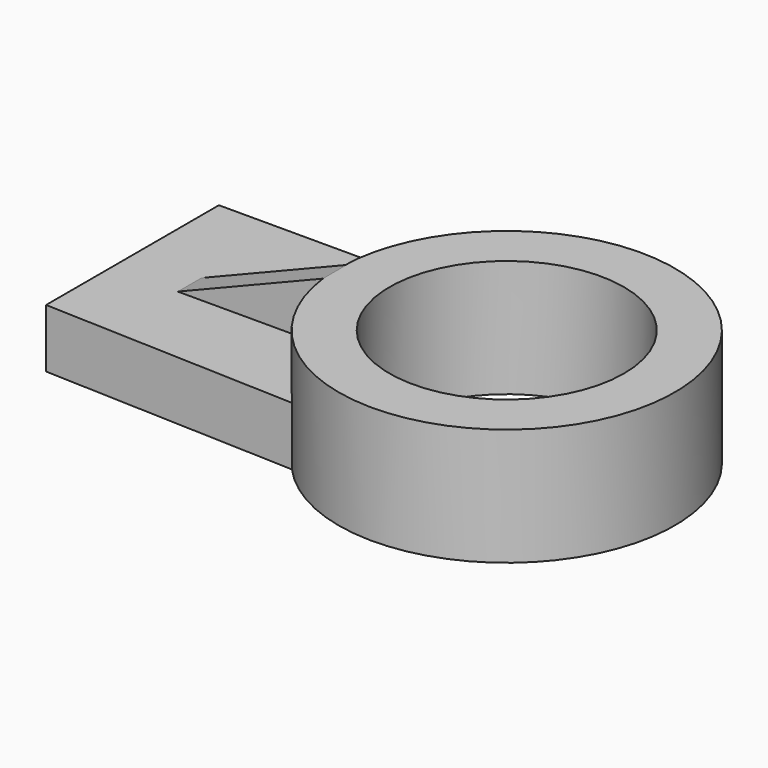
from build123d import *

# Parameters (mm, degrees)
F0_R     = 25.387749
F1_DEPTH = 25.4
F2_DEPTH = 12.7
F4_DEPTH = 25.4


with BuildPart() as f1:
    # F0 (on Top) → F1 (new body)
    with BuildSketch(Plane.XY):
        with BuildLine():
            Line((-31.190502, -14.275898), (0.254667, -14.275898))
            ThreePointArc((0.254667, -14.275898), (3.293439, -24.854389), (9.355083, -34.041069))
            ThreePointArc((9.355083, -34.041069), (72.758975, -9.630573), (9.355083, 14.779924))
            ThreePointArc((9.355083, 14.779924), (2.715424, 4.269314), (0, -7.862646))
            Line((0, -7.862646), (-31.190502, -7.862646))
            Line((-31.190502, -7.862646), (-31.190502, -14.275898))
        make_face()
        with Locations((36.358009, -9.630573)):
            Circle(F0_R, mode=Mode.SUBTRACT)
    extrude(amount=F1_DEPTH)

    # F0 (on Top) → F2 (join)
    with BuildSketch(Plane.XY):
        with BuildLine():
            ThreePointArc((9.355083, -34.041069), (3.293439, -24.854389), (0.254667, -14.275898))
            Line((0.254667, -14.275898), (-31.190502, -14.275898))
            Line((-31.190502, -14.275898), (-31.190502, -7.862646))
            Line((-31.190502, -7.862646), (0, -7.862646))
            ThreePointArc((0, -7.862646), (2.715424, 4.269314), (9.355083, 14.779924))
            Line((9.355083, 14.779924), (-45.523933, 14.779924))
            Line((-45.523933, 14.779924), (-45.523933, -32.019987))
            Line((-45.523933, -32.019987), (9.355083, -34.041069))
        make_face()
    extrude(amount=F2_DEPTH)

    # F3 (on face) → F4 (cut)
    with BuildSketch(Plane.XZ.offset(14.275898)):
        Polygon((-31.190502, 12.7), (0.254667, 25.4), (-31.190502, 25.4), align=None)
    extrude(amount=-F4_DEPTH, mode=Mode.SUBTRACT)


solid = f1.part
